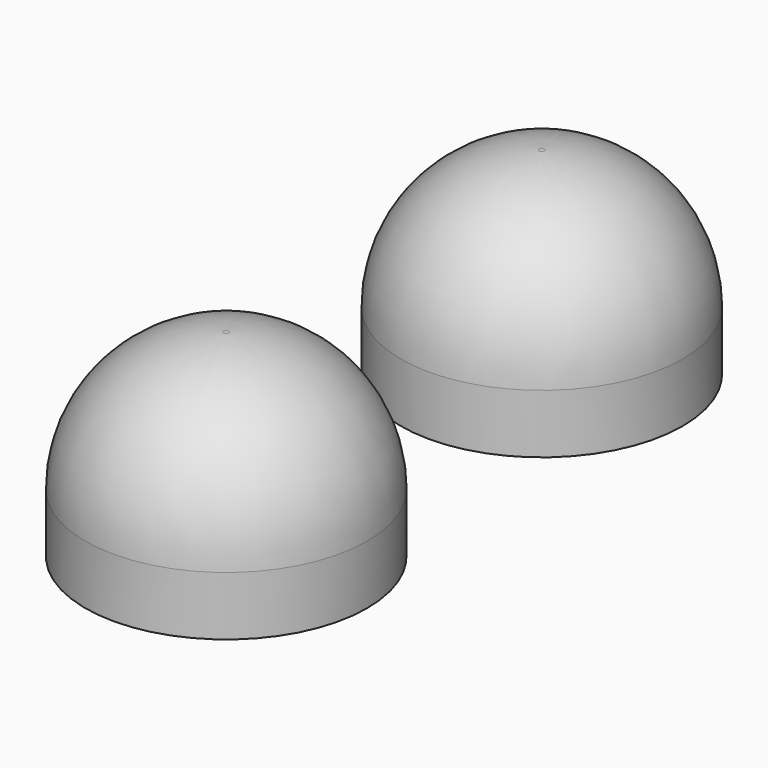
from build123d import *

# Parameters (mm, degrees)
F0_R     = 5
F1_DEPTH = 7
F2_R     = 4.905682
F3_R     = 1.525
F4_DEPTH = 4.2


with BuildPart() as f1:
    # F0 (on Top) → F1 (new body)
    with BuildSketch(Plane.XY):
        Circle(F0_R)
    extrude(amount=F1_DEPTH)

    # F2
    f2_edges = [f1.edges().sort_by_distance(p)[0] for p in [
        (-5, 0, 7),
    ]]
    fillet(f2_edges, radius=F2_R)

    # F3 (on face) → F4 (cut)
    with BuildSketch(Plane(origin=(0, 0, 0), x_dir=(1, 0, 0), z_dir=(0, 0, -1))):
        Circle(F3_R)
    extrude(amount=-F4_DEPTH, mode=Mode.SUBTRACT)


with BuildPart() as f6_1:
    # F6: instance of F1
    add(f1.part.mirror(Plane.XZ.offset(7)))


solid = Compound([f1.part, f6_1.part])
